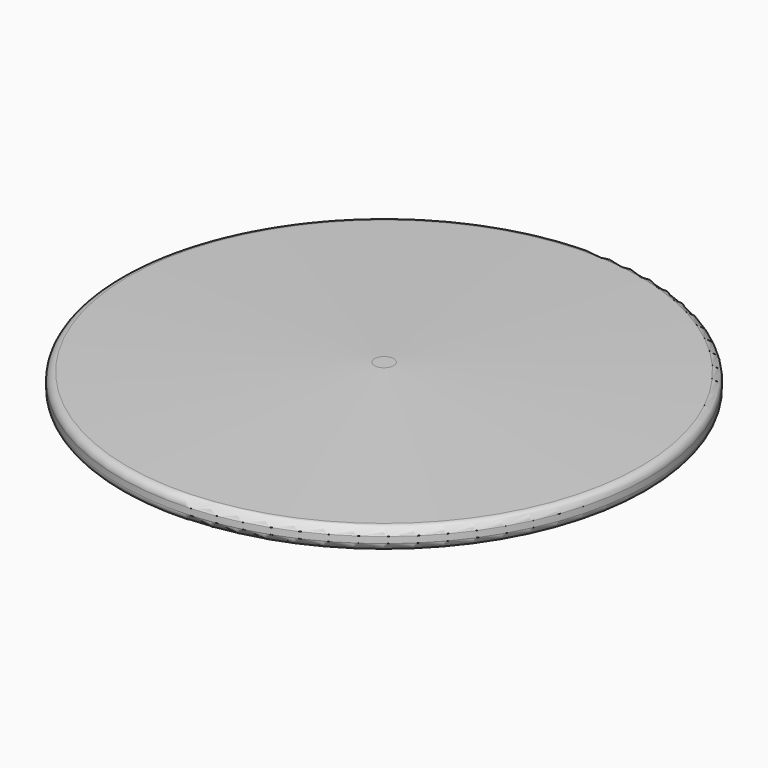
from build123d import *


with BuildPart() as f1:
    # F0 (on Front) → F1 (revolve)
    with BuildSketch(Plane.XZ):
        with BuildLine():
            Line((211.396159, 8.87954), (7.905546, 15.811093))
            Line((7.905546, 15.811093), (0, 15.811093))
            Line((0, 15.811093), (0, -17.851226))
            Line((0, -17.851226), (7.905546, -17.851226))
            Line((7.905546, -17.851226), (211.457818, -8.936529))
            ThreePointArc((211.457818, -8.936529), (215.767289, -6.983409), (217.529982, -2.59261))
            Line((217.529982, -2.59261), (217.529982, 2.533221))
            ThreePointArc((217.529982, 2.533221), (215.745901, 6.946257), (211.396159, 8.87954))
        make_face()
    revolve(axis=Axis((0, 0, -1.020066), (0, 0, 1)))


solid = f1.part
